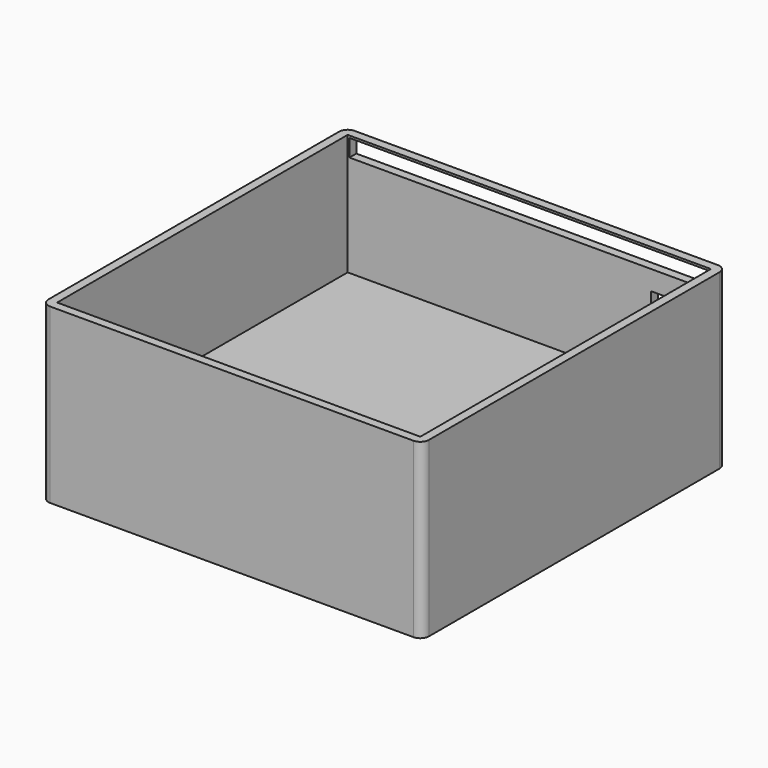
from build123d import *

# Parameters (mm, degrees)
F0_W     = 110
F0_H     = 110
F1_DEPTH = 50
F2_W     = 105
F2_H     = 105
F3_DEPTH = 35
F4_W     = 104
F4_H     = 5
F5_DEPTH = 108
F6_W     = 12.735002
F6_H     = 6.483276
F6_W_2   = 7.409461
F6_H_2   = 6.483274
F7_DEPTH = 50
F8_R     = 2.5


with BuildPart() as f1:
    # F0 (on Top) → F1 (new body)
    with BuildSketch(Plane.XY):
        Rectangle(F0_W, F0_H)
    extrude(amount=F1_DEPTH)

    # F2 (on face) → F3 (cut)
    with BuildSketch(Plane.XY.offset(50)):
        Rectangle(F2_W, F2_H)
    extrude(amount=-F3_DEPTH, mode=Mode.SUBTRACT)

    # F4 (on face) → F5 (cut)
    with BuildSketch(Plane(origin=(0, 55, 0), x_dir=(-1, 0, 0), z_dir=(0, 1, 0))):
        with Locations((0, 46.881082)):
            Rectangle(F4_W, F4_H)
    extrude(amount=-F5_DEPTH, mode=Mode.SUBTRACT)

    # F6 (on face) → F7 (cut)
    with BuildSketch(Plane(origin=(0, 55, 0), x_dir=(-1, 0, 0), z_dir=(0, 1, 0))):
        with Locations((-41.632924, 35.490146)):
            Rectangle(F6_W, F6_H)
        with Locations((43.460033, 10.946326)):
            Rectangle(F6_W_2, F6_H_2)
    extrude(amount=-F7_DEPTH, mode=Mode.SUBTRACT)

    # F8
    f8_edges = [f1.edges().sort_by_distance(p)[0] for p in [
        (-55, 55, 25),
        (-55, -55, 25),
        (55, 55, 25),
        (55, -55, 25),
    ]]
    fillet(f8_edges, radius=F8_R)


solid = f1.part
